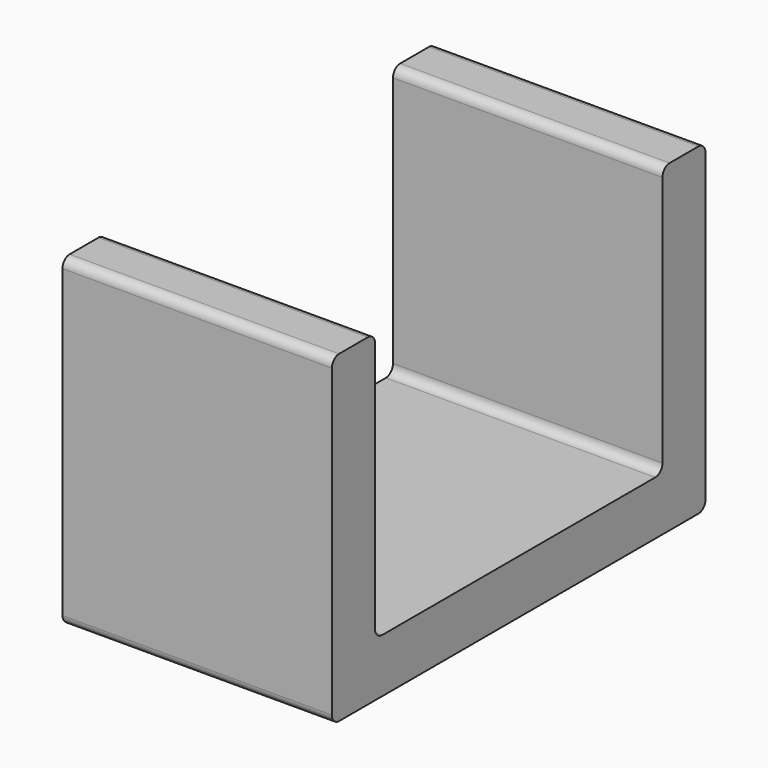
from build123d import *

# Parameters (mm, degrees)
F1_DEPTH = 150


with BuildPart() as f1:
    # F0 (on Right) → F1 (new body)
    with BuildSketch(Plane.YZ):
        with BuildLine():
            Line((-125, 0), (0, 0))
            Line((0, 0), (125, 0))
            ThreePointArc((125, 0), (128.535534, 1.464466), (130, 5))
            Line((130, 5), (130, 175))
            ThreePointArc((130, 175), (128.535534, 178.535534), (125, 180))
            Line((125, 180), (105, 180))
            ThreePointArc((105, 180), (101.464466, 178.535534), (100, 175))
            Line((100, 175), (100, 35))
            ThreePointArc((100, 35), (98.535534, 31.464466), (95, 30))
            Line((95, 30), (0, 30))
            Line((0, 30), (-95, 30))
            ThreePointArc((-95, 30), (-98.535534, 31.464466), (-100, 35))
            Line((-100, 35), (-100, 175))
            ThreePointArc((-100, 175), (-101.464466, 178.535534), (-105, 180))
            Line((-105, 180), (-125, 180))
            ThreePointArc((-125, 180), (-128.535534, 178.535534), (-130, 175))
            Line((-130, 175), (-130, 5))
            ThreePointArc((-130, 5), (-128.535534, 1.464466), (-125, 0))
        make_face()
    extrude(amount=F1_DEPTH)


solid = f1.part
